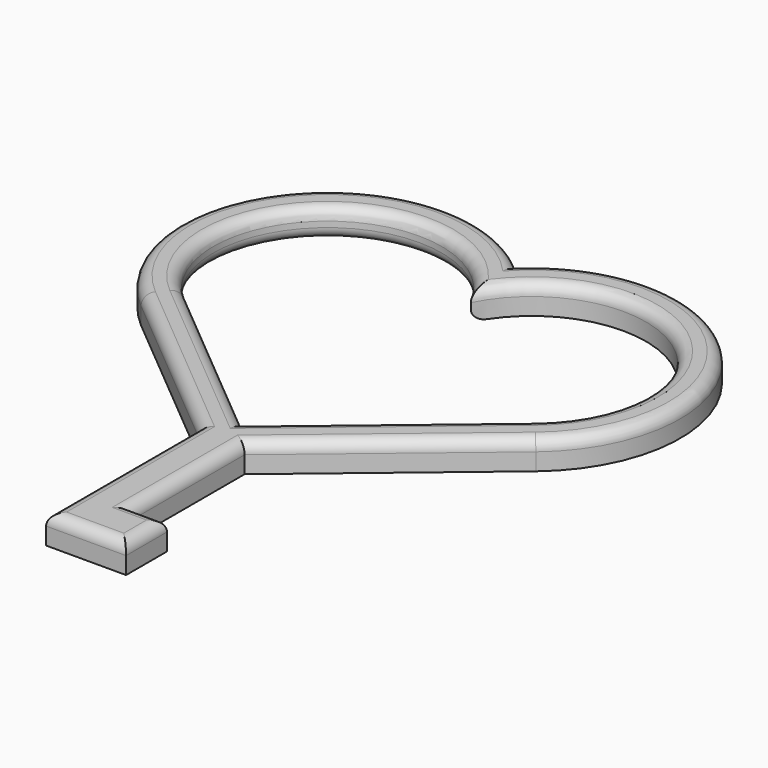
from build123d import *

# Parameters (mm, degrees)
F1_DEPTH = 3.175
F2_R     = 1.27


with BuildPart() as f1:
    # F0 (on Top) → F1 (new body)
    with BuildSketch(Plane.XY):
        with BuildLine():
            Line((-21.930882, 13.368339), (-2.54, -2.842578))
            Line((-2.54, -2.842578), (-2.54, -18.3762))
            Line((-2.54, -18.3762), (-2.54, -24.069088))
            Line((-2.54, -24.069088), (2.54, -24.069088))
            Line((2.54, -24.069088), (6.35, -24.069088))
            Line((6.35, -24.069088), (6.35, -18.3762))
            Line((6.35, -18.3762), (2.54, -18.3762))
            Line((2.54, -18.3762), (2.54, -2.842578))
            Line((2.54, -2.842578), (21.930882, 13.368339))
            ThreePointArc((21.930882, 13.368339), (23.67951, 37.005537), (0, 38.032972))
            ThreePointArc((0, 38.032972), (-23.67951, 37.005537), (-21.930882, 13.368339))
        make_face()
        with BuildLine():
            Line((19.48717, 16.291415), (0, 0))
            Line((0, 0), (-19.48717, 16.291415))
            ThreePointArc((-19.48717, 16.291415), (-19.234192, 35.984614), (0, 31.75))
            ThreePointArc((0, 31.75), (19.234192, 35.984614), (19.48717, 16.291415))
        make_face(mode=Mode.SUBTRACT)
        with BuildLine():
            Line((-21.930882, 13.368339), (-2.54, -2.842578))
            Line((-2.54, -2.842578), (-2.54, -18.3762))
            Line((-2.54, -18.3762), (-2.54, -24.069088))
            Line((-2.54, -24.069088), (2.54, -24.069088))
            Line((2.54, -24.069088), (6.35, -24.069088))
            Line((6.35, -24.069088), (6.35, -18.3762))
            Line((6.35, -18.3762), (2.54, -18.3762))
            Line((2.54, -18.3762), (2.54, -2.842578))
            Line((2.54, -2.842578), (21.930882, 13.368339))
            ThreePointArc((21.930882, 13.368339), (23.67951, 37.005537), (0, 38.032972))
            ThreePointArc((0, 38.032972), (-23.67951, 37.005537), (-21.930882, 13.368339))
        make_face()
        with BuildLine():
            Line((19.48717, 16.291415), (0, 0))
            Line((0, 0), (-19.48717, 16.291415))
            ThreePointArc((-19.48717, 16.291415), (-19.234192, 35.984614), (0, 31.75))
            ThreePointArc((0, 31.75), (19.234192, 35.984614), (19.48717, 16.291415))
        make_face(mode=Mode.SUBTRACT)
    extrude(amount=F1_DEPTH)

    # F2
    f2_edges = [f1.edges().sort_by_distance(p)[0] for p in [
        (-12.235441, 5.262881, 3.175),
        (-23.67951, 37.005537, 3.175),
        (23.67951, 37.005537, 3.175),
        (12.235441, 5.262881, 3.175),
        (-2.54, -13.455833, 3.175),
        (2.54, -10.609389, 3.175),
        (-9.743585, 8.145707, 0),
        (-19.234192, 35.984614, 3.175),
        (19.234192, 35.984614, 3.175),
        (4.445, -18.3762, 3.175),
        (6.35, -21.222644, 3.175),
        (1.905, -24.069088, 3.175),
    ]]
    fillet(f2_edges, radius=F2_R)


solid = f1.part
